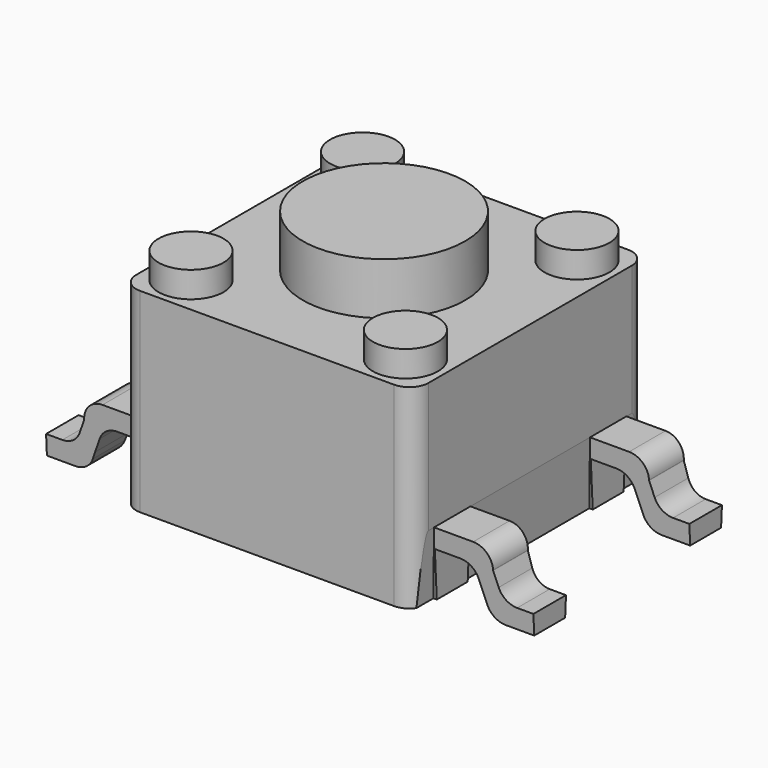
from build123d import *

# Parameters (mm, degrees)
F1_DEPTH = 3
F2_R     = 1.25
F3_DEPTH = 0.8
F4_R     = 0.5
F5_DEPTH = 0.4
F7_DEPTH = 4.5
F8_W     = 2.6356157809
F8_H     = 2.3
F8_H_2   = 1.3762946473
F8_H_3   = 0.8484862057
F9_DEPTH = 1.001
F9_TAPER = -3


with BuildPart() as f1:
    # F0 (on Top) → F1 (new body)
    with BuildSketch(Plane.XY):
        with BuildLine():
            Line((1.9558071992, 2.25), (-1.9558071992, 2.25))
            ThreePointArc((-1.9558071992, 2.25), (-2.1638329236, 2.1638329236), (-2.25, 1.9558071992))
            Line((-2.25, 1.9558071992), (-2.25, -1.9558071992))
            ThreePointArc((-2.25, -1.9558071992), (-2.1638329236, -2.1638329236), (-1.9558071992, -2.25))
            Line((-1.9558071992, -2.25), (1.9558071992, -2.25))
            ThreePointArc((1.9558071992, -2.25), (2.1638329236, -2.1638329236), (2.25, -1.9558071992))
            Line((2.25, -1.9558071992), (2.25, 1.9558071992))
            ThreePointArc((2.25, 1.9558071992), (2.1638329236, 2.1638329236), (1.9558071992, 2.25))
        make_face()
    extrude(amount=F1_DEPTH)

    # F4 (on face) → F5 (join)
    with BuildSketch(Plane.XY.offset(3)):
        with Locations((-1.65, 1.65)):
            Circle(F4_R)
        with Locations((1.65, 1.65)):
            Circle(F4_R)
        with Locations((1.65, -1.65)):
            Circle(F4_R)
        with Locations((-1.65, -1.65)):
            Circle(F4_R)
    extrude(amount=F5_DEPTH)


with BuildPart() as f3:
    # F2 (on face) → F3 (new body)
    with BuildSketch(Plane.XY.offset(3)):
        Circle(F2_R)
    extrude(amount=F3_DEPTH)


with BuildPart() as f7:
    # F6 (on face) → F7 (new body)
    with BuildSketch(Plane.XZ.offset(2.25)):
        with BuildLine():
            Line((-2.25, 0.7), (-2.25, 1))
            Line((-2.25, 1), (-2.8523447788, 1))
            ThreePointArc((-2.8523447788, 1), (-3.0603705032, 0.9138329236), (-3.1465375796, 0.7058071992))
            Line((-3.1465375796, 0.7058071992), (-3.1465375796, 0.7))
            Line((-3.1465375796, 0.7), (-3.2237766144, 0.491846367))
            ThreePointArc((-3.2237766144, 0.491846367), (-3.3316050515, 0.3526778033), (-3.4995928784, 0.3))
            Line((-3.4995928784, 0.3), (-3.75, 0.3))
            Line((-3.75, 0.3), (-3.75, 0))
            Line((-3.75, 0), (-3.3109131091, 0))
            ThreePointArc((-3.3109131091, 0), (-3.1429252821, 0.0526778033), (-3.035096845, 0.191846367))
            Line((-3.035096845, 0.191846367), (-2.9949645538, 0.3))
            Line((-2.9949645538, 0.3), (-2.917725519, 0.508153633))
            ThreePointArc((-2.917725519, 0.508153633), (-2.8098970819, 0.6473221967), (-2.641909255, 0.7))
            Line((-2.641909255, 0.7), (-2.25, 0.7))
        make_face()
    extrude(amount=-F7_DEPTH)


with BuildPart() as f7b:
    # F6 (on face) → F7, piece 2 (new body)
    with BuildSketch(Plane.XZ.offset(2.25)):
        with BuildLine():
            Line((3.1465375796, 0.7), (3.1465375796, 0.7058071992))
            ThreePointArc((3.1465375796, 0.7058071992), (3.0603705032, 0.9138329236), (2.8523447788, 1))
            Line((2.8523447788, 1), (2.25, 1))
            Line((2.25, 1), (2.25, 0.7))
            Line((2.25, 0.7), (2.641909255, 0.7))
            ThreePointArc((2.641909255, 0.7), (2.8098970819, 0.6473221967), (2.917725519, 0.508153633))
            Line((2.917725519, 0.508153633), (2.9949645538, 0.3))
            Line((2.9949645538, 0.3), (3.035096845, 0.191846367))
            ThreePointArc((3.035096845, 0.191846367), (3.1429252821, 0.0526778033), (3.3109131091, 0))
            Line((3.3109131091, 0), (3.75, 0))
            Line((3.75, 0), (3.75, 0.3))
            Line((3.75, 0.3), (3.4995928784, 0.3))
            ThreePointArc((3.4995928784, 0.3), (3.3316050515, 0.3526778033), (3.2237766144, 0.491846367))
            Line((3.2237766144, 0.491846367), (3.1465375796, 0.7))
        make_face()
    extrude(amount=-F7_DEPTH)


with BuildPart() as f9_tool:
    # F8 (on face) → F9 (new body, through all)
    with BuildSketch(Plane.XY.offset(1)):
        with Locations((-3.5678078905, 0)):
            Rectangle(F8_W, F8_H)
        with Locations((-3.5678078905, -2.5381473237)):
            Rectangle(F8_W, F8_H_2)
        with Locations((-3.5678078905, 2.2742431029)):
            Rectangle(F8_W, F8_H_3)
        with Locations((3.5678078905, 0)):
            Rectangle(F8_W, F8_H)
        with Locations((3.5678078905, -2.5381473237)):
            Rectangle(F8_W, F8_H_2)
        with Locations((3.5678078905, 2.2742431029)):
            Rectangle(F8_W, F8_H_3)
    extrude(amount=-F9_DEPTH, taper=F9_TAPER)


with BuildPart() as f1_1:
    add(f1.part)

    # F9: cut by f9_tool
    add(f9_tool.part, mode=Mode.SUBTRACT)


with BuildPart() as f7_1:
    add(f7.part)

    # F9: cut by f9_tool
    add(f9_tool.part, mode=Mode.SUBTRACT)


with BuildPart() as f7b_1:
    add(f7b.part)

    # F9: cut by f9_tool
    add(f9_tool.part, mode=Mode.SUBTRACT)


solid = Compound([f3.part, f1_1.part, f7_1.part, f7b_1.part])
